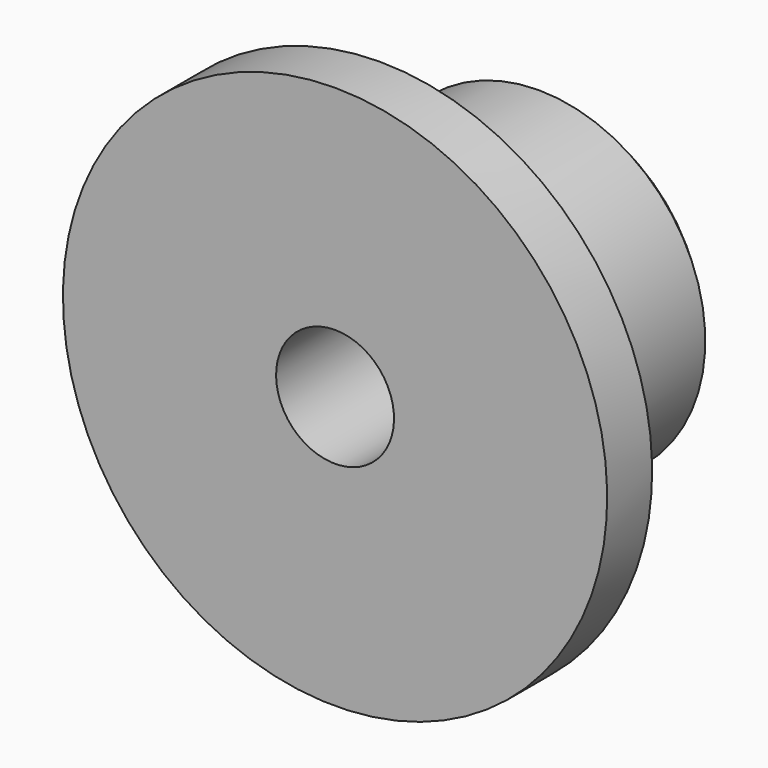
from build123d import *

# Parameters (mm, degrees)
F0_W    = 15.4116954654
F0_H    = 29.5077543706
F0_W_2  = 59.3914035708
F0_H_2  = 28.9439186454
F2_SIZE = 5


with BuildPart() as f1:
    # F0 (on Right) → F1 (revolve)
    with BuildSketch(Plane.YZ):
        with Locations((7.7058477327, 30.91736231)):
            Rectangle(F0_W, F0_H)
        with Locations((45.1073972508, 30.91736231)):
            Rectangle(F0_W_2, F0_H)
        with Locations((7.7058477327, 60.143198818)):
            Rectangle(F0_W, F0_H_2)
    revolve(axis=Axis((0, 37.4015495181, 0), (0, 1, 0)))

    # F2
    f2_edges = [f1.edges().sort_by_distance(p)[0] for p in [
        (0, 15.411695, -45.671239),
        (0, 74.803099, -45.671239),
    ]]
    chamfer(f2_edges, length=F2_SIZE)


solid = f1.part
